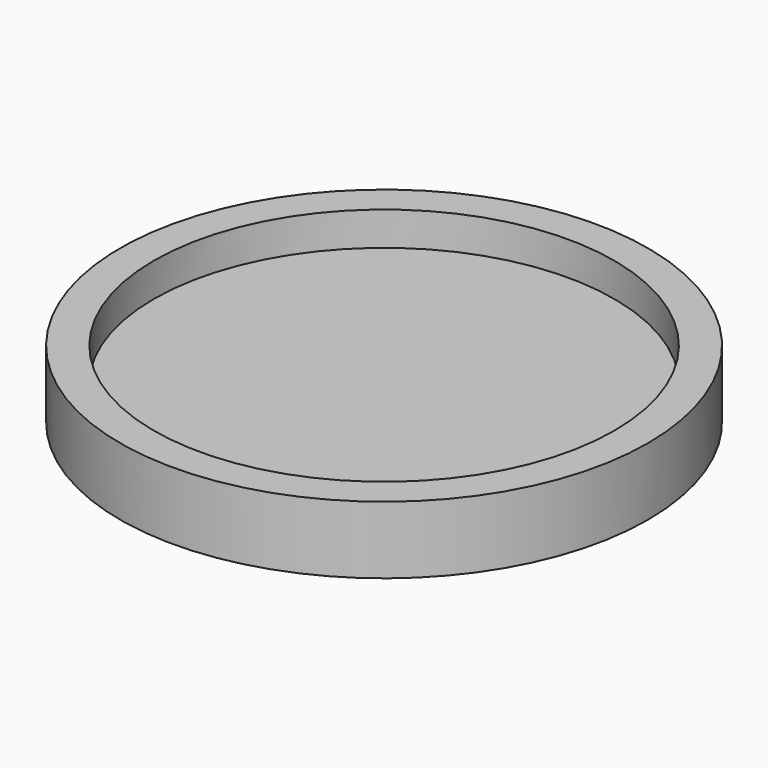
from build123d import *

# Parameters (mm, degrees)
F0_R     = 68.2587577657
F1_DEPTH = 10
F2_R     = 60.1472105794
F3_DEPTH = 5
F4_R     = 56.5410055919
F5_DEPTH = 7
F6_T     = 10


with BuildPart() as f1:
    # F0 (on Top) → F1 (new body)
    with BuildSketch(Plane.XY):
        Circle(F0_R)
    extrude(amount=F1_DEPTH)

    # F2 (on face) → F3 (join)
    with BuildSketch(Plane.XY.offset(10)):
        Circle(F2_R)
    extrude(amount=-F3_DEPTH)

    # F4 (on face) → F5 (join)
    with BuildSketch(Plane.XY.offset(10)):
        Circle(F4_R)
    extrude(amount=-F5_DEPTH)

    # F6
    f6_openings = [f1.faces().sort_by_distance(p)[0] for p in [
        (0, 0, 10),
    ]]
    offset(amount=F6_T, openings=f6_openings, kind=Kind.INTERSECTION)


solid = f1.part
